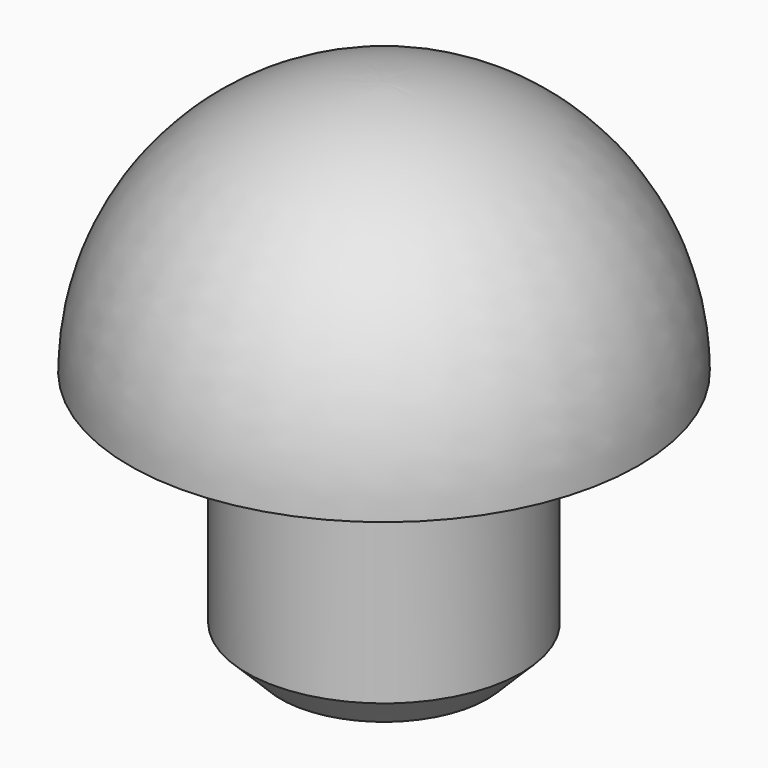
from build123d import *

# Parameters (mm, degrees)
F3_R    = 3.175
F4_SIZE = 2.54


with BuildPart() as f2:
    # F0 (on Front) → F2 (revolve)
    with BuildSketch(Plane.XZ):
        with BuildLine():
            Line((0, 19.05), (0, -19.05))
            Line((0, -19.05), (10.287, -19.05))
            Line((10.287, -19.05), (10.287, 0))
            Line((10.287, 0), (19.05, 0))
            ThreePointArc((19.05, 0), (13.470384, 13.470384), (0, 19.05))
        make_face()
    revolve(axis=Axis((0, 0, -1.607088), (0, 0, -1)))

    # F3
    f3_edges = [f2.edges().sort_by_distance(p)[0] for p in [
        (-10.287, 0, 0),
    ]]
    fillet(f3_edges, radius=F3_R)

    # F4
    f4_edges = [f2.edges().sort_by_distance(p)[0] for p in [
        (-10.287, 0, -19.05),
    ]]
    chamfer(f4_edges, length=F4_SIZE)


solid = f2.part
